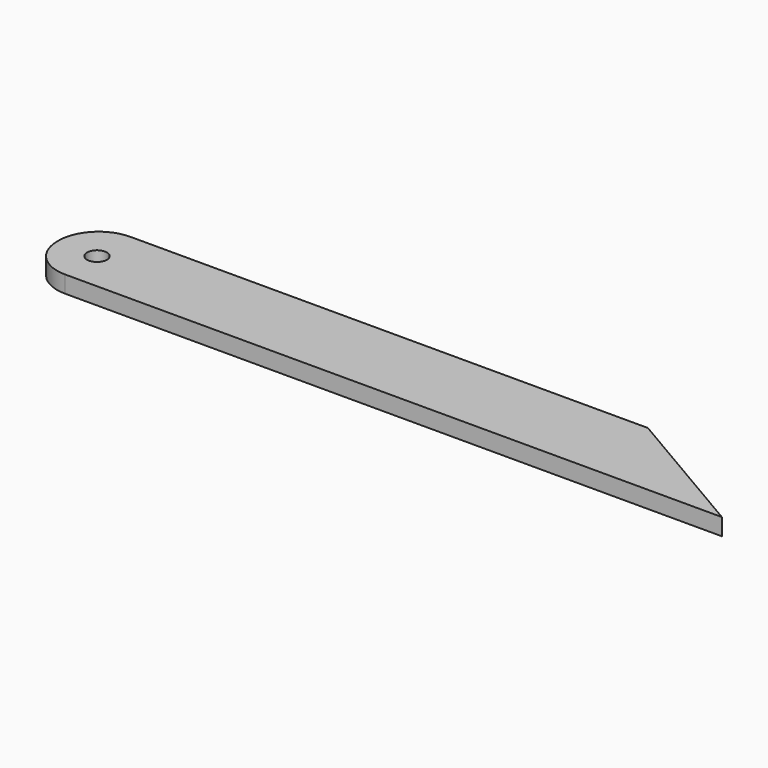
from build123d import *

# Parameters (mm, degrees)
F1_DEPTH = 1.0795
F2_R     = 5.08
F3_R     = 1.27
F4_DEPTH = 25.4


with BuildPart() as f1:
    # F0 (on Top) → F1 (new body, symmetric)
    with BuildSketch(Plane.XY):
        Polygon((0, 10.414), (0, 0), (88.9, 0), (71.12, 10.414), align=None)
    extrude(amount=F1_DEPTH, both=True)

    # F2
    f2_edges = [f1.edges().sort_by_distance(p)[0] for p in [
        (0, 10.414, 0),
        (0, 0, 0),
    ]]
    fillet(f2_edges, radius=F2_R)

    # F3 (on face) → F4 (cut)
    with BuildSketch(Plane.XY.offset(1.0795)):
        with Locations((5.08, 5.08)):
            Circle(F3_R)
    extrude(amount=-F4_DEPTH, mode=Mode.SUBTRACT)


solid = f1.part
